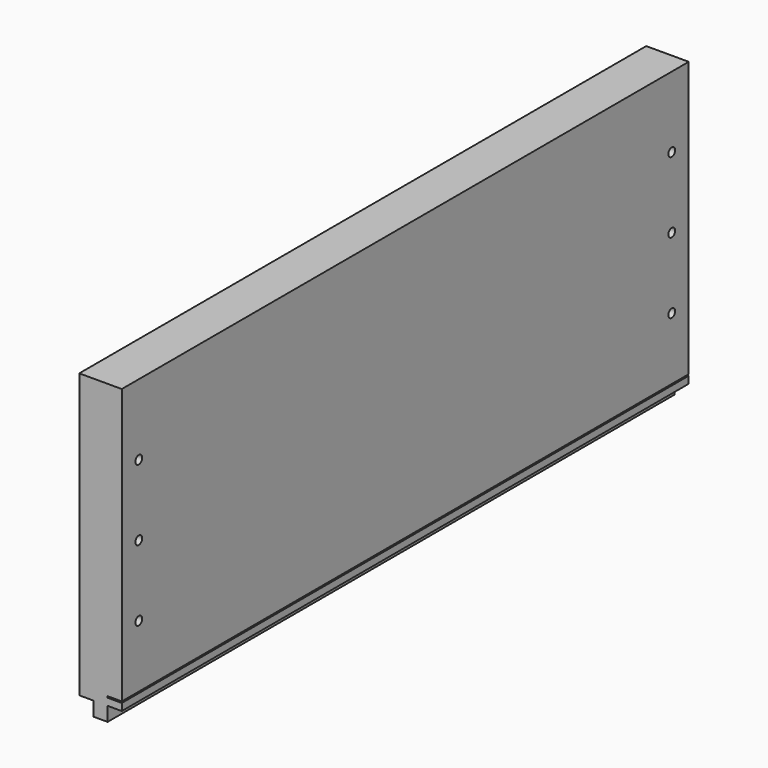
from build123d import *

# Parameters (mm, degrees)
F0_W     = 500
F0_H     = 200
F0_R     = 3
F1_DEPTH = 30
F2_W     = 10
F2_H     = 10
F3_DEPTH = 500
F4_W     = 10
F4_H     = 1
F5_DEPTH = 500


with BuildPart() as f1:
    # F0 (on Right) → F1 (new body)
    with BuildSketch(Plane.YZ):
        Rectangle(F0_W, F0_H)
        with Locations((-235, -50)):
            Circle(F0_R, mode=Mode.SUBTRACT)
        with Locations((235, -50)):
            Circle(F0_R, mode=Mode.SUBTRACT)
        with Locations((-235, 0)):
            Circle(F0_R, mode=Mode.SUBTRACT)
        with Locations((-235, 50)):
            Circle(F0_R, mode=Mode.SUBTRACT)
        with Locations((235, 0)):
            Circle(F0_R, mode=Mode.SUBTRACT)
        with Locations((235, 50)):
            Circle(F0_R, mode=Mode.SUBTRACT)
    extrude(amount=F1_DEPTH)

    # F2 (on face) → F3 (join)
    with BuildSketch(Plane.XZ.offset(250)):
        with Locations((15, -105)):
            Rectangle(F2_W, F2_H)
    extrude(amount=-F3_DEPTH)

    # F4 (on face) → F5 (cut)
    with BuildSketch(Plane.XZ.offset(250)):
        with Locations((25, -94.5)):
            Rectangle(F4_W, F4_H)
    extrude(amount=-F5_DEPTH, mode=Mode.SUBTRACT)


solid = f1.part
